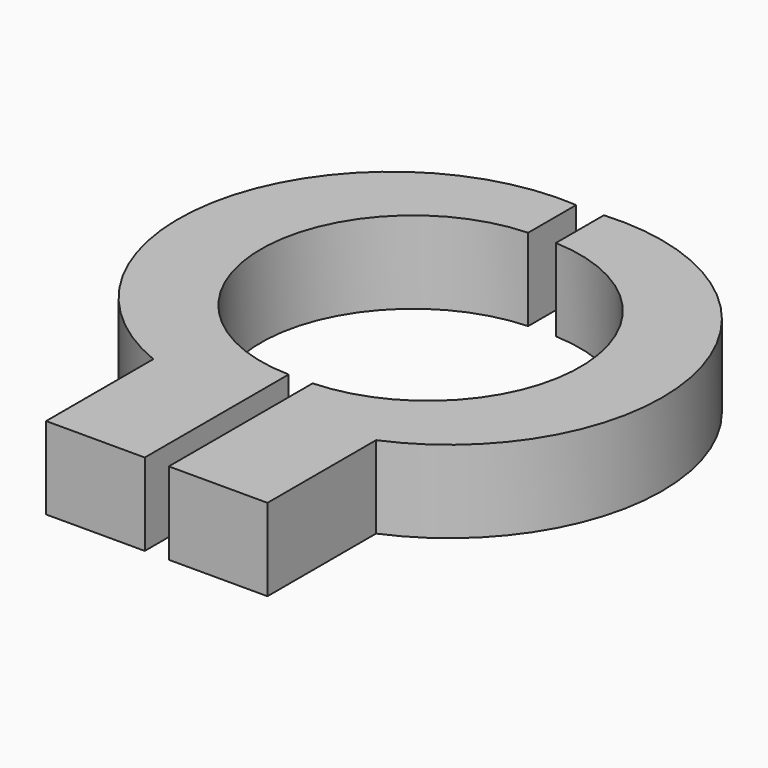
from build123d import *

# Parameters (mm, degrees)
F1_DEPTH = 12.7


with BuildPart() as f1:
    # F0 (on Top) → F1 (new body)
    with BuildSketch(Plane.XY):
        with BuildLine():
            ThreePointArc((0, 21.743288), (22.531714, -1.731957), (0, -25.207201))
            Line((0, -25.207201), (0, -34.561623))
            ThreePointArc((0, -34.561623), (7.771593, -34.19772), (15.24, -32.017584))
            ThreePointArc((15.24, -32.017584), (34.310766, 5.951467), (0, 31.013675))
            Line((0, 31.013675), (0, 21.743288))
        make_face()
        with BuildLine():
            ThreePointArc((15.24, -32.017584), (7.771593, -34.19772), (0, -34.561623))
            Line((0, -34.561623), (0, -52.972956))
            Line((0, -52.972956), (15.24, -52.972956))
            Line((15.24, -52.972956), (15.24, -34.561623))
            Line((15.24, -34.561623), (15.24, -32.017584))
        make_face()
        with BuildLine():
            ThreePointArc((-3.708129, -25.207201), (-26.765341, -2.008652), (-4.27861, 21.743288))
            Line((-4.27861, 21.743288), (-4.27861, 31.013675))
            ThreePointArc((-4.27861, 31.013675), (-38.616715, 5.630689), (-18.948129, -32.271134))
            ThreePointArc((-18.948129, -32.271134), (-11.464176, -34.321583), (-3.708129, -34.561623))
            Line((-3.708129, -34.561623), (-3.708129, -25.207201))
        make_face()
        with BuildLine():
            Line((-3.708129, -52.972956), (-3.708129, -34.561623))
            ThreePointArc((-3.708129, -34.561623), (-11.464176, -34.321583), (-18.948129, -32.271134))
            Line((-18.948129, -32.271134), (-18.948129, -52.972956))
            Line((-18.948129, -52.972956), (-3.708129, -52.972956))
        make_face()
    extrude(amount=F1_DEPTH)


solid = f1.part
